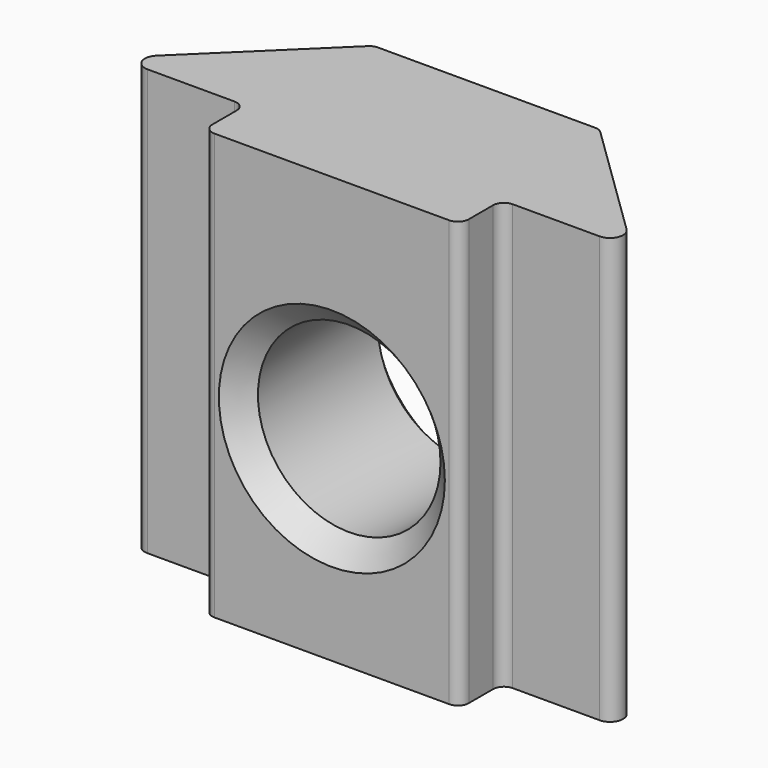
from build123d import *

# Parameters (mm, degrees)
PAD_DEPTH    = 9.8
FILLET_R     = 0.25
SKETCH001_R  = 2.1
POCKET_DEPTH = 4.451
CHAMFER_SIZE = 0.5


with BuildPart() as part:
    # Sketch → Pad (new body)
    with BuildSketch(Plane.XY):
        with BuildLine():
            Line((-5.2, 0), (-2.95, 0))
            Line((-2.95, 0), (-2.95, -1.2))
            Line((-2.95, -1.2), (2.95, -1.2))
            Line((2.95, -1.2), (2.95, 0))
            Line((2.95, 0), (5.2, 0))
            ThreePointArc((5.2, 0), (5.477926, 0.187053), (5.409273, 0.514953))
            Line((2.6, 3.25), (5.409273, 0.514953))
            Line((-2.6, 3.25), (2.6, 3.25))
            Line((-5.409273, 0.514953), (-2.6, 3.25))
            ThreePointArc((-5.409273, 0.514953), (-5.477926, 0.187053), (-5.2, 0))
        make_face()
    extrude(amount=PAD_DEPTH)

    # Fillet
    fillet_edges = [part.edges().sort_by_distance(p)[0] for p in [
        (2.95, 0, 4.9),
        (2.95, -1.2, 4.9),
        (-2.95, -1.2, 4.9),
        (-2.95, 0, 4.9),
        (-2.6, 3.25, 4.9),
        (2.6, 3.25, 4.9),
    ]]
    fillet(fillet_edges, radius=FILLET_R)

    # Sketch001 (on Face10 of Fillet) → Pocket (cut, through all)
    with BuildSketch(Plane.XZ.offset(1.2)):
        with Locations((0, 4.5)):
            Circle(SKETCH001_R)
    extrude(amount=-POCKET_DEPTH, mode=Mode.SUBTRACT)

    # Chamfer
    chamfer_edges = [part.edges().sort_by_distance(p)[0] for p in [
        (-2.1, -1.2, 4.5),
        (2.1, 1.025, 4.5),
        (-2.1, 3.25, 4.5),
    ]]
    chamfer(chamfer_edges, length=CHAMFER_SIZE)


solid = part.part
